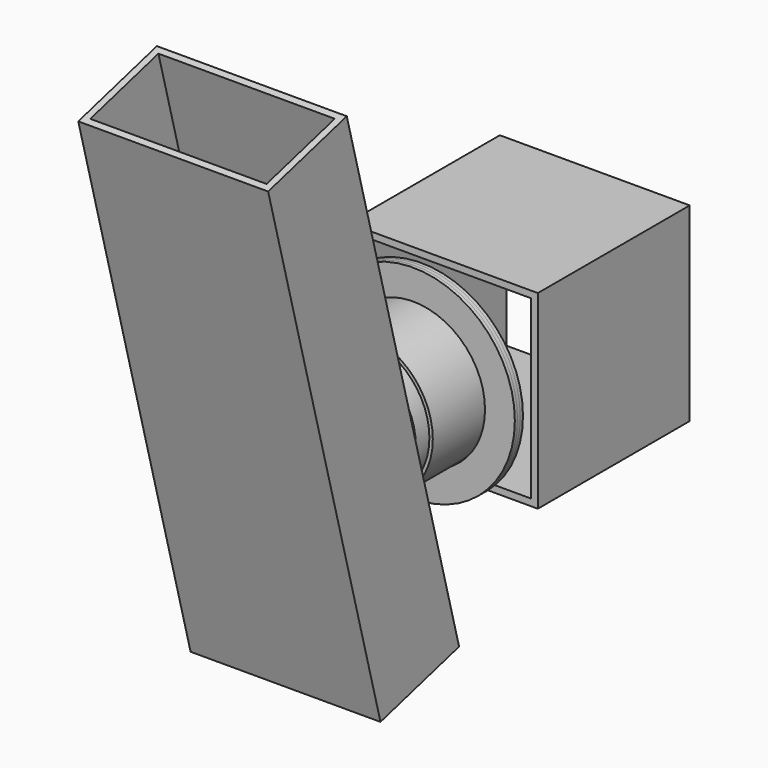
from build123d import *

# Parameters (mm, degrees)
F0_W      = 280
F0_H      = 280
F0_W_2    = 260
F0_H_2    = 260
F1_DEPTH  = 280
F2_R      = 105
F2_R_2    = 100
F3_DEPTH  = 40
F4_R      = 150
F4_R_2    = 100
F5_DEPTH  = 5
F6_R      = 150
F6_R_2    = 120
F7_DEPTH  = 5
F8_R      = 120
F8_R_2    = 100
F9_DEPTH  = 5
F10_R     = 105
F10_R_2   = 100
F11_DEPTH = 100
F12_R     = 150
F12_R_2   = 106
F13_DEPTH = 5
F14_W     = 280
F14_H     = 150
F14_W_2   = 260
F14_H_2   = 130
F15_DEPTH = 400
F16_ANGLE = 15
F17_R     = 100
F18_DEPTH = 25


with BuildPart() as f1:
    # F0 (on Front) → F1 (new body)
    with BuildSketch(Plane.XZ):
        with Locations((-140, 140)):
            Rectangle(F0_W, F0_H)
        with Locations((-140, 140)):
            Rectangle(F0_W_2, F0_H_2, mode=Mode.SUBTRACT)
    extrude(amount=F1_DEPTH)


with BuildPart() as f3:
    # F2 (on face) → F3 (new body)
    with BuildSketch(Plane.XZ.offset(280)):
        with Locations((-139.883369, 140)):
            Circle(F2_R)
        with Locations((-139.883369, 140)):
            Circle(F2_R_2, mode=Mode.SUBTRACT)
    extrude(amount=F3_DEPTH)

    # F4 (on face) → F5 (join)
    with BuildSketch(Plane.XZ.offset(320)):
        with Locations((-139.883369, 140)):
            Circle(F4_R)
        with Locations((-139.883369, 140)):
            Circle(F4_R_2, mode=Mode.SUBTRACT)
    extrude(amount=F5_DEPTH)


with BuildPart() as f7:
    # F6 (on face) → F7 (new body)
    with BuildSketch(Plane.XZ.offset(325)):
        with Locations((-139.883369, 140)):
            Circle(F6_R)
        with Locations((-139.883369, 140)):
            Circle(F6_R_2, mode=Mode.SUBTRACT)
    extrude(amount=F7_DEPTH)


with BuildPart() as f9:
    # F8 (on face) → F9 (new body)
    with BuildSketch(Plane.XZ.offset(325)):
        with Locations((-139.883369, 140)):
            Circle(F8_R)
        with Locations((-139.883369, 140)):
            Circle(F8_R_2, mode=Mode.SUBTRACT)
    extrude(amount=F9_DEPTH)

    # F10 (on face) → F11 (join)
    with BuildSketch(Plane.XZ.offset(330)):
        with Locations((-139.883369, 140)):
            Circle(F10_R)
        with Locations((-139.883369, 140)):
            Circle(F10_R_2, mode=Mode.SUBTRACT)
    extrude(amount=F11_DEPTH)


with BuildPart() as f13:
    # F12 (on face) → F13 (new body)
    with BuildSketch(Plane.XZ.offset(330)):
        with Locations((-139.883369, 140)):
            Circle(F12_R)
        with Locations((-139.883369, 140)):
            Circle(F12_R_2, mode=Mode.SUBTRACT)
    extrude(amount=F13_DEPTH)


with BuildPart() as f15:
    # F14 (on face) → F15 (new body, symmetric)
    with BuildSketch(Plane.XY.offset(280)):
        with Locations((-140, -500.140904)):
            Rectangle(F14_W, F14_H)
        with Locations((-140, -500.140904)):
            Rectangle(F14_W_2, F14_H_2, mode=Mode.SUBTRACT)
    extrude(amount=F15_DEPTH, both=True)


with BuildPart() as f15_1:
    # F16: moved
    add(f15.part.rotate(Axis((-140, -425.140904, -120), (1, 0, 0)), F16_ANGLE))


with BuildPart() as f18:
    # F17 (on face) → F18 (new body)
    with BuildSketch(Plane.XZ.offset(430)):
        with Locations((-139.883369, 140)):
            Circle(F17_R)
    extrude(amount=F18_DEPTH)


solid = Compound([f1.part, f3.part, f7.part, f9.part, f13.part, f15_1.part, f18.part])
